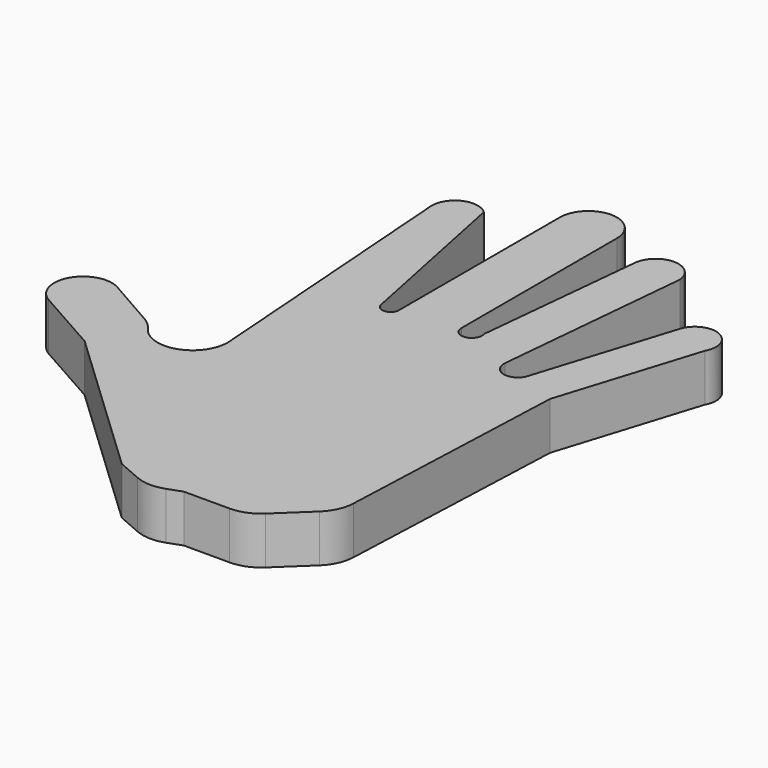
from build123d import *

# Parameters (mm, degrees)
F2_DEPTH = 7.62


with BuildPart() as f2:
    # F0 (on Top) → F2 (new body)
    with BuildSketch(Plane.XY):
        with BuildLine():
            ThreePointArc((-23.3978834003, 50.023060292), (-27.4997267828, 50.6536517659), (-29.5835305005, 47.0647066832))
            Line((-29.5835305005, 47.0647066832), (-26.3562351465, 2.6894118637))
            ThreePointArc((-26.3562351465, 2.6894118637), (-30.0568964057, -3.0117198643), (-36.5468953579, -0.9923857326))
            ThreePointArc((-36.5468953579, -0.9923857326), (-37.4558657154, 0.0263669016), (-38.5615982403, 0.8272661613))
            Line((-38.5615982403, 0.8272661613), (-46.5268231928, 5.3788237274))
            ThreePointArc((-46.5268231928, 5.3788237274), (-52.8547873235, 3.6351522654), (-51.0988235474, -2.6894118637))
            Line((-51.0988235474, -2.6894118637), (-40.6101159751, -8.6061181501))
            Line((-40.6101159751, -8.6061181501), (-16.1364711821, -31.7350588739))
            Line((-16.1364711821, -31.7350588739), (-12.2621996492, -33.4195259751))
            ThreePointArc((-12.2621996492, -33.4195259751), (-9.9352680974, -33.9428224896), (-7.5794191189, -33.5707670106))
            Line((-7.5794191189, -33.5707670106), (-5.3406401906, -32.7648067825))
            Line((-5.3406401906, -32.7648067825), (2.0005224682, -32.7648067825))
            ThreePointArc((2.0005224682, -32.7648067825), (4.3510519912, -32.3137482945), (6.3676519732, -31.0246527547))
            Line((6.3676519732, -31.0246527547), (11.2955290824, -26.3562370092))
            ThreePointArc((11.2955290824, -26.3562370092), (12.7098340581, -24.3727031559), (13.2732275699, -22.0026287135))
            Line((13.2732275699, -22.0026287135), (14.7917633876, 15.5985886231))
            Line((14.7917633876, 15.5985886231), (21.784234792, 37.9207059741))
            ThreePointArc((21.784234792, 37.9207059741), (20.1876221141, 42.706692178), (15.5985895544, 40.6101197004))
            Line((15.5985895544, 40.6101197004), (8.6142982273, 18.3141156696))
            ThreePointArc((8.6142982273, 18.3141156696), (5.9213082315, 17.2164344024), (4.3030595407, 19.6327064186))
            Line((4.3030595407, 19.6327064186), (7.2614112869, 51.0988272727))
            ThreePointArc((7.2614112869, 51.0988272727), (3.6307056434, 54.3845706594), (0, 51.0988272727))
            Line((0, 51.0988272727), (-2.6894125622, 24.2047067732))
            ThreePointArc((-2.6894125622, 24.2047067732), (-3.9855855018, 22.0309200881), (-5.9167062864, 23.6668251455))
            Line((-5.9167062864, 23.6668251455), (-5.9167062864, 54.8640005291))
            ThreePointArc((-5.9167062864, 54.8640005291), (-10.4887061752, 59.4360004179), (-15.0607060641, 54.8640005291))
            Line((-15.0607060641, 54.8640005291), (-15.0607060641, 22.3221182823))
            ThreePointArc((-15.0607060641, 22.3221182823), (-16.4054119959, 21.2239115903), (-17.7501179278, 22.3221182823))
            Line((-17.7501179278, 22.3221182823), (-23.3978834003, 50.023060292))
        make_face()
    extrude(amount=F2_DEPTH)


with BuildPart() as f2b:
    # F1 (on face) → F2, piece 2 (new body)
    with BuildSketch(Plane.XY):
        with BuildLine():
            Line((-17.7501179278, 22.3221182823), (-23.3978834003, 50.023060292))
            ThreePointArc((-23.3978834003, 50.023060292), (-27.4997267828, 50.6536517659), (-29.5835305005, 47.0647066832))
            Line((-29.5835305005, 47.0647066832), (-26.3562351465, 2.6894118637))
            ThreePointArc((-26.3562351465, 2.6894118637), (-30.0568964057, -3.0117198643), (-36.5468953579, -0.9923857326))
            ThreePointArc((-36.5468953579, -0.9923857326), (-37.4558657154, 0.0263669016), (-38.5615982403, 0.8272661613))
            Line((-38.5615982403, 0.8272661613), (-46.5268231928, 5.3788237274))
            ThreePointArc((-46.5268231928, 5.3788237274), (-52.8547873235, 3.6351522654), (-51.0988235474, -2.6894118637))
            Line((-51.0988235474, -2.6894118637), (-40.6101159751, -8.6061181501))
            Line((-40.6101159751, -8.6061181501), (-16.1364711821, -31.7350588739))
            Line((-16.1364711821, -31.7350588739), (-12.2621996492, -33.4195259751))
            ThreePointArc((-12.2621996492, -33.4195259751), (-9.9352680974, -33.9428224896), (-7.5794191189, -33.5707670106))
            Line((-7.5794191189, -33.5707670106), (-5.3406401906, -32.7648067825))
            Line((-5.3406401906, -32.7648067825), (2.0005224682, -32.7648067825))
            ThreePointArc((2.0005224682, -32.7648067825), (4.3510519912, -32.3137482945), (6.3676519732, -31.0246527547))
            Line((6.3676519732, -31.0246527547), (11.2955290824, -26.3562370092))
            ThreePointArc((11.2955290824, -26.3562370092), (12.7098340581, -24.3727031559), (13.2732275699, -22.0026287135))
            Line((13.2732275699, -22.0026287135), (14.7917633876, 15.5985886231))
            Line((14.7917633876, 15.5985886231), (21.784234792, 37.9207059741))
            ThreePointArc((21.784234792, 37.9207059741), (20.1876221141, 42.706692178), (15.5985895544, 40.6101197004))
            Line((15.5985895544, 40.6101197004), (8.6142982273, 18.3141156696))
            ThreePointArc((8.6142982273, 18.3141156696), (5.9213082315, 17.2164344024), (4.3030595407, 19.6327064186))
            Line((4.3030595407, 19.6327064186), (7.2614112869, 51.0988272727))
            ThreePointArc((7.2614112869, 51.0988272727), (3.6307056434, 54.3845706594), (0, 51.0988272727))
            Line((0, 51.0988272727), (-2.6894125622, 24.2047067732))
            ThreePointArc((-2.6894125622, 24.2047067732), (-3.9855855018, 22.0309200881), (-5.9167062864, 23.6668251455))
            Line((-5.9167062864, 23.6668251455), (-5.9167062864, 54.8640005291))
            ThreePointArc((-5.9167062864, 54.8640005291), (-10.4887061752, 59.4360004179), (-15.0607060641, 54.8640005291))
            Line((-15.0607060641, 54.8640005291), (-15.0607060641, 22.3221182823))
            ThreePointArc((-15.0607060641, 22.3221182823), (-16.4054119959, 21.2239115903), (-17.7501179278, 22.3221182823))
        make_face()
    extrude(amount=F2_DEPTH)


solid = Compound([f2.part, f2b.part])
